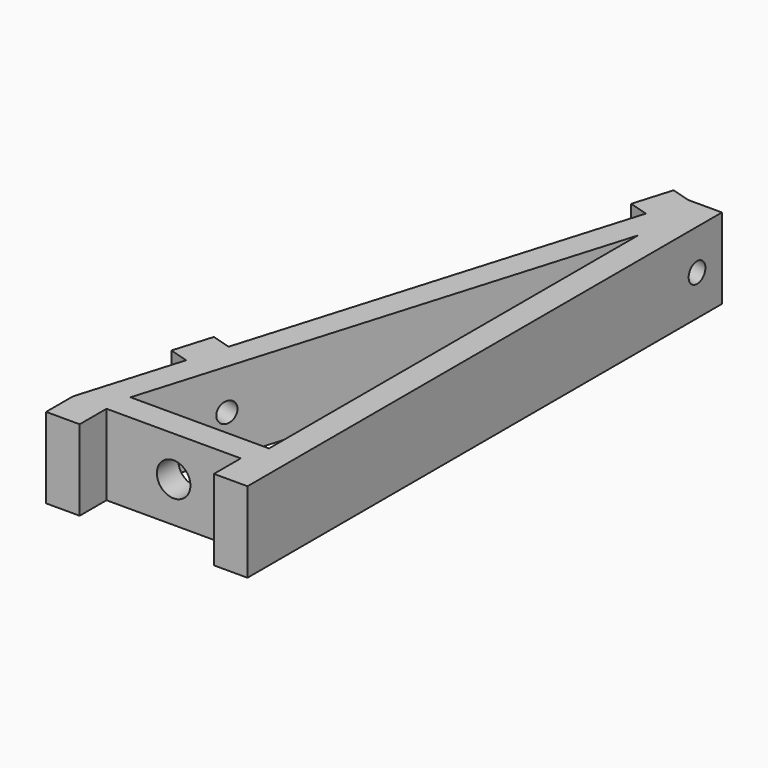
from build123d import *

# Parameters (mm, degrees)
F1_DEPTH = 12
F2_R     = 2.5
F3_DEPTH = 4
F4_W     = 6
F4_H     = 12
F4_R     = 1.5
F5_DEPTH = 3
F6_DEPTH = 6.5712102501


with BuildPart() as f1:
    # F0 (on Top) → F1 (new body)
    with BuildSketch(Plane.XY):
        Polygon((-20, -5), (-20, 0), (0, 0), (0, -5), (5, -5), (5, 83.330666624), (0, 83.330666624), (-25, 0), (-25, -5), align=None)
        Polygon((1, 4), (-19.6238279597, 4), (1, 72.743893289), align=None, mode=Mode.SUBTRACT)
    extrude(amount=F1_DEPTH)

    # F2 (on face) → F3 (cut, through all)
    with BuildSketch(Plane.XZ):
        with Locations((-10, 6)):
            Circle(F2_R)
    extrude(amount=-F3_DEPTH, mode=Mode.SUBTRACT)

    # F4 (on face) → F5 (join)
    with BuildSketch(Plane(origin=(-22.9356586075, 6.8809177751, 0), x_dir=(-0.2873563218, -0.9578237543, 0), z_dir=(-0.9578237543, 0.2873563218, 0))):
        with Locations((-76.816091954, 6)):
            Rectangle(F4_W, F4_H)
        with Locations((-76.816091954, 6)):
            Circle(F4_R, mode=Mode.SUBTRACT)
        with Locations((-11.816091954, 6)):
            Rectangle(F4_W, F4_H)
        with Locations((-11.816091954, 6)):
            Circle(F4_R, mode=Mode.SUBTRACT)
    extrude(amount=F5_DEPTH)

    # F4 (on face) → F6 (cut, through all)
    with BuildSketch(Plane(origin=(-22.9356586075, 6.8809177751, 0), x_dir=(-0.2873563218, -0.9578237543, 0), z_dir=(-0.9578237543, 0.2873563218, 0))):
        with Locations((-76.816091954, 6)):
            Circle(F4_R)
        with Locations((-11.816091954, 6)):
            Circle(F4_R)
    extrude(amount=-F6_DEPTH, mode=Mode.SUBTRACT)


solid = f1.part
